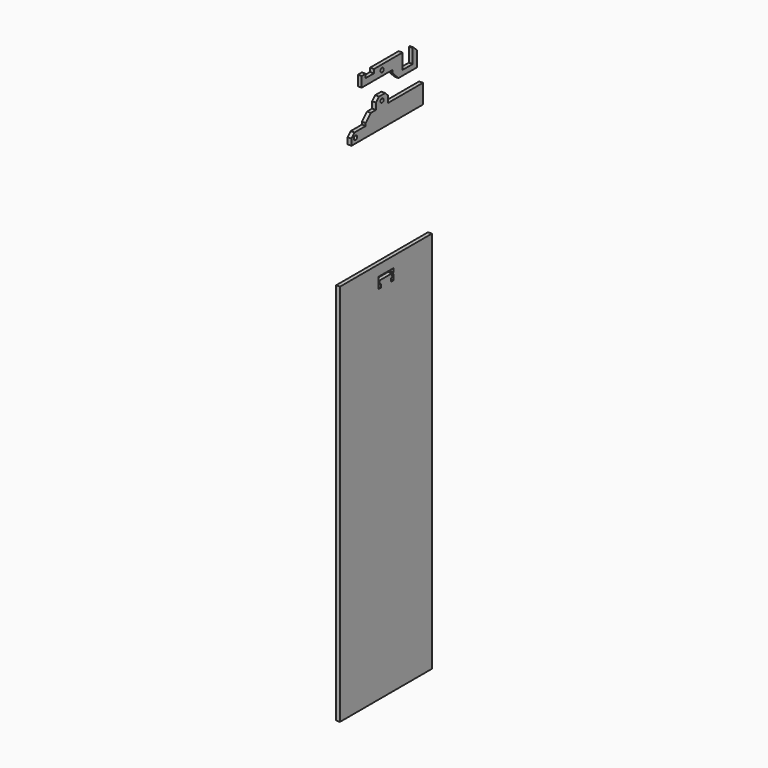
from build123d import *

# Parameters (mm, degrees)
F0_R      = 1.55
F0_W      = 12
F0_H      = 8
F1_DEPTH  = 3
F2_R      = 1.6
F2_W      = 10
F2_H      = 4
F3_DEPTH  = 3
F4_SIZE   = 3
F5_SIZE   = 6
F6_SIZE   = 3
F7_SIZE   = 5
F8_SIZE   = 3
F9_W      = 90
F9_H      = 300
F10_DEPTH = 3


with BuildPart() as f1:
    # F0 (on Right) → F1 (new body)
    with BuildSketch(Plane.YZ):
        Polygon((-6, 15), (-16, 15), (-16, 8), (-30, 8), (-30, 0), (40, 0), (40, 15), (6, 15), align=None)
        with Locations((-26, 4)):
            Circle(F0_R, mode=Mode.SUBTRACT)
        with Locations((0, 19)):
            Rectangle(F0_W, F0_H)
        with Locations((0, 19)):
            Circle(F0_R, mode=Mode.SUBTRACT)
    extrude(amount=F1_DEPTH)

    # F4
    f4_edges = [f1.edges().sort_by_distance(p)[0] for p in [
        (1.5, -6, 23),
        (1.5, 6, 23),
    ]]
    chamfer(f4_edges, length=F4_SIZE)

    # F7
    f7_edges = [f1.edges().sort_by_distance(p)[0] for p in [
        (1.5, -16, 15),
    ]]
    chamfer(f7_edges, length=F7_SIZE)

    # F8
    f8_edges = [f1.edges().sort_by_distance(p)[0] for p in [
        (1.5, -30, 8),
    ]]
    chamfer(f8_edges, length=F8_SIZE)


with BuildPart() as f3:
    # F2 (on Right) → F3 (new body)
    with BuildSketch(Plane.YZ):
        Polygon((-16, 44), (-20, 44), (-20, 36), (10, 36), (20, 36), (20, 44), (-8, 44), (-8, 41), (-16, 41), align=None)
        with Locations((0, 40)):
            Circle(F2_R, mode=Mode.SUBTRACT)
        Polygon((20, 36), (10, 36), (10, 28), (20, 28), (20, 32), align=None)
        with Locations((25, 30)):
            Rectangle(F2_W, F2_H)
        Polygon((30, 43), (30, 32), (30, 28), (34, 28), (34, 43), align=None)
    extrude(amount=F3_DEPTH)

    # F5
    f5_edges = [f3.edges().sort_by_distance(p)[0] for p in [
        (1.5, 10, 28),
    ]]
    chamfer(f5_edges, length=F5_SIZE)

    # F6
    f6_edges = [f3.edges().sort_by_distance(p)[0] for p in [
        (1.5, 34, 43),
    ]]
    chamfer(f6_edges, length=F6_SIZE)


with BuildPart() as f10:
    # F9 (on face) → F10 (new body)
    with BuildSketch(Plane.YZ.offset(3)):
        with Locations((0, -240)):
            Rectangle(F9_W, F9_H)
        Polygon((-7.5, -98.5), (7.5, -98.5), (7.5, -101.5), (7, -101.5), (7.5, -104.5), (7.5, -107), (5, -107), (5, -104.5), (6.25, -104.5), (6, -101.5), (-6, -101.5), (-6.25, -104.5), (-5, -104.5), (-5, -107), (-7.5, -107), (-7.5, -104.5), (-7, -101.5), (-7.5, -101.5), align=None, mode=Mode.SUBTRACT)
    extrude(amount=F10_DEPTH)


solid = Compound([f1.part, f3.part, f10.part])
